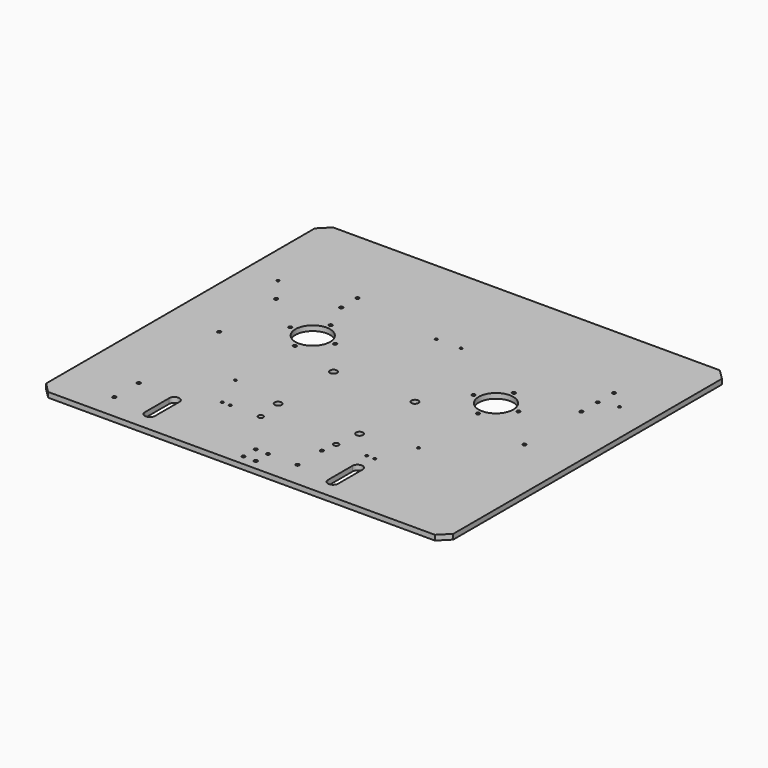
from build123d import *

# Parameters (mm, degrees)
F0_W      = 400
F0_H      = 350
F1_DEPTH  = 5
F2_R      = 17
F3_DEPTH  = 25
F5_D      = 3.3
F7_D      = 3.3
F9_D      = 3.3
F11_DEPTH = 25
F13_D     = 3.3
F15_D     = 3.3
F17_D     = 2.5
F18_D     = 5
F20_D     = 2.5
F22_D     = 6.8
F23_SIZE  = 10


with BuildPart() as f1:
    # F0 (on Top) → F1 (new body)
    with BuildSketch(Plane.XY):
        with Locations((0, -75)):
            Rectangle(F0_W, F0_H)
    extrude(amount=F1_DEPTH)

    # F2 (on face) → F3 (cut)
    with BuildSketch(Plane.XY.offset(5)):
        with Locations((-90, -50)):
            Circle(F2_R)
        with Locations((90, -50)):
            Circle(F2_R)
    extrude(amount=-F3_DEPTH, mode=Mode.SUBTRACT)

    # F5 (through all)
    with Locations(Plane.XY.offset(5)):
        with Locations((-90, -72), (-68, -50), (-90, -28), (-112, -50), (68, -50), (90, -72), (112, -50), (90, -28)):
            Hole(F5_D / 2)

    # F7 (through all)
    with Locations(Plane.XY.offset(5)):
        with Locations((-6, -225), (6, -225), (6, -240), (-6, -240)):
            Hole(F7_D / 2)

    # F9 (through all)
    with Locations(Plane(origin=(0, 0, 0), x_dir=(1, 0, 0), z_dir=(0, 0, -1))):
        with Locations((-145, 225), (-145, 195), (35, 195), (35, 225)):
            Hole(F9_D / 2)

    # F10 (on face) → F11 (cut)
    with BuildSketch(Plane.XY.offset(5)):
        with BuildLine():
            Line((-101, -230), (-101, -200))
            ThreePointArc((-101, -200), (-106, -195), (-111, -200))
            Line((-111, -200), (-111, -230))
            ThreePointArc((-111, -230), (-106, -235), (-101, -230))
        make_face()
        with BuildLine():
            Line((69, -200), (69, -230))
            ThreePointArc((69, -230), (74, -235), (79, -230))
            Line((79, -230), (79, -200))
            ThreePointArc((79, -200), (74, -195), (69, -200))
        make_face()
    extrude(amount=-F11_DEPTH, mode=Mode.SUBTRACT)

    # F13 (through all)
    with Locations(Plane(origin=(0, 0, 0), x_dir=(1, 0, 0), z_dir=(0, 0, -1))):
        with Locations((-102, -20), (-102, 0), (150, 0), (150, -20)):
            Hole(F13_D / 2)

    # F15 (through all)
    with Locations(Plane(origin=(0, 0, 0), x_dir=(1, 0, 0), z_dir=(0, 0, -1))):
        with Locations((-150, 20), (-150, 90), (150, 90), (150, 20)):
            Hole(F15_D / 2)

    # F17 (through all)
    with Locations(Plane(origin=(0, 0, 0), x_dir=(1, 0, 0), z_dir=(0, 0, -1))):
        with Locations((-75, 180), (-67, 180), (67, 180), (75, 180)):
            Hole(F17_D / 2)

    # F18 (through all)
    with Locations(Plane(origin=(0, 0, 0), x_dir=(1, 0, 0), z_dir=(0, 0, -1))):
        with Locations((-37, 180), (37, 180)):
            Hole(F18_D / 2)

    # F20 (through all)
    with Locations(Plane(origin=(0, 0, 0), x_dir=(1, 0, 0), z_dir=(0, 0, -1))):
        with Locations((-167.8194442075, -4.4897614533), (-12.1805557925, -4.4897614533), (-90, 145), (12.1805557925, -4.4897614533), (167.8194442075, -4.4897614533), (90, 145)):
            Hole(F20_D / 2)

    # F22 (through all)
    with Locations(Plane.XY.offset(5)):
        with Locations((-40, -87), (-40, -155), (40, -155), (40, -87)):
            Hole(F22_D / 2)

    # F23
    f23_edges = [f1.edges().sort_by_distance(p)[0] for p in [
        (-200, -250, 2.5),
        (200, -250, 2.5),
        (200, 100, 2.5),
        (-200, 100, 2.5),
    ]]
    chamfer(f23_edges, length=F23_SIZE)


solid = f1.part
